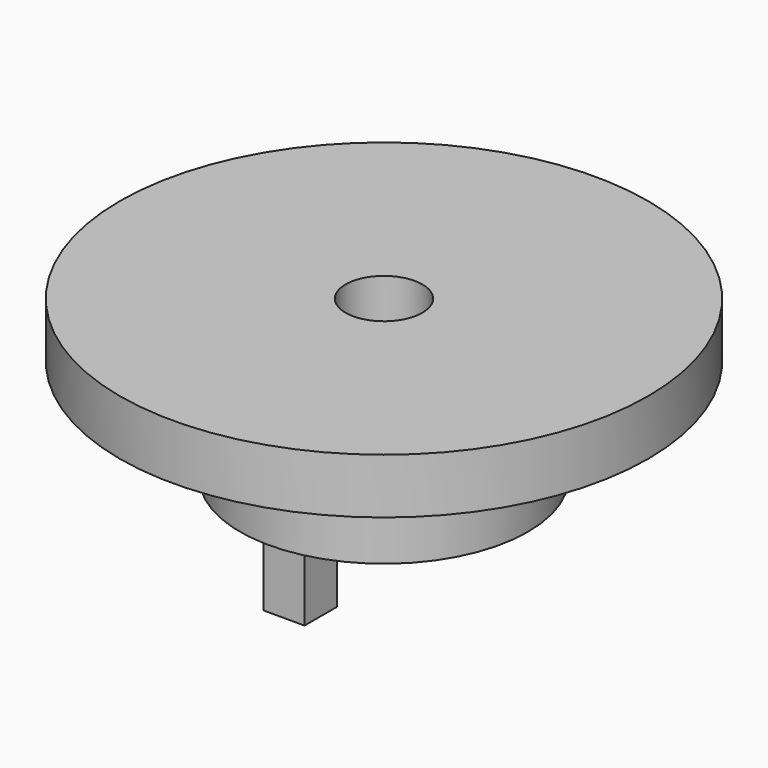
from build123d import *

# Parameters (mm, degrees)
SKETCH_R        = 11
PAD_DEPTH       = 6.6
SKETCH001_R     = 11
SKETCH001_R_2   = 6
POCKET_DEPTH    = 4.3
SKETCH003_W     = 1.7
SKETCH003_H     = 1.7
PAD001_DEPTH    = 3
SKETCH004_W     = 2
SKETCH004_H     = 2
POCKET002_DEPTH = 4.3
SKETCH002_R     = 1.6
POCKET003_DEPTH = 6.601


with BuildPart() as part:
    # Sketch → Pad (new body)
    with BuildSketch(Plane.XY):
        Circle(SKETCH_R)
    extrude(amount=PAD_DEPTH)

    # Sketch001 → Pocket (cut)
    with BuildSketch(Plane(origin=(0, 0, 0), x_dir=(1, 0, 0), z_dir=(0, 0, -1))):
        Circle(SKETCH001_R)
        Circle(SKETCH001_R_2, mode=Mode.SUBTRACT)
    extrude(amount=-POCKET_DEPTH, mode=Mode.SUBTRACT)

    # Sketch003 → Pad001 (new body)
    with BuildSketch(Plane(origin=(0, 0, 0), x_dir=(1, 0, 0), z_dir=(0, 0, -1))):
        with Locations((0, 4.35)):
            Rectangle(SKETCH003_W, SKETCH003_H)
        with Locations((0, -4.35)):
            Rectangle(SKETCH003_W, SKETCH003_H)
    extrude(amount=PAD001_DEPTH)

    # Sketch004 → Pocket002 (cut)
    with BuildSketch(Plane(origin=(0, 0, 0), x_dir=(1, 0, 0), z_dir=(0, 0, -1))):
        with Locations((-4.2, 0)):
            Rectangle(SKETCH004_W, SKETCH004_H)
        with Locations((4.2, 0)):
            Rectangle(SKETCH004_W, SKETCH004_H)
    extrude(amount=-POCKET002_DEPTH, mode=Mode.SUBTRACT)

    # Sketch002 → Pocket003 (cut, through all)
    with BuildSketch(Plane(origin=(0, 0, 0), x_dir=(1, 0, 0), z_dir=(0, 0, -1))):
        Circle(SKETCH002_R)
    extrude(amount=-POCKET003_DEPTH, mode=Mode.SUBTRACT)


solid = part.part
